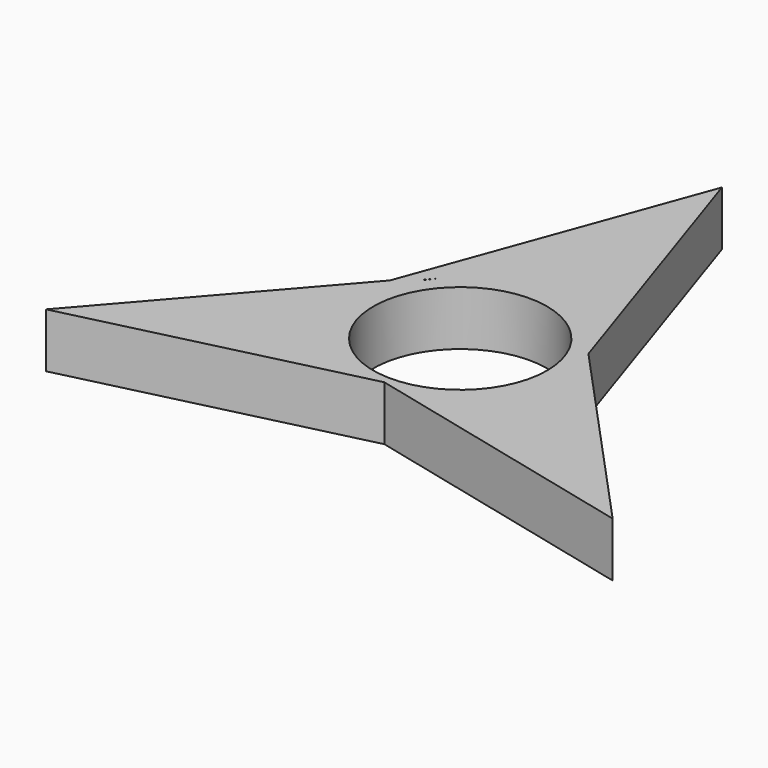
from build123d import *

# Parameters (mm, degrees)
F0_R     = 11.15
F1_DEPTH = 7


with BuildPart() as f1:
    # F0 (on Top) → F1 (new body)
    with BuildSketch(Plane.XY):
        Polygon((12.105645, 5.433464), (0, 41.989982), (-13.375477, 5.433464), (-36.364391, -20.994991), (0, -12.173187), (36.364391, -20.994991), align=None)
        with BuildLine():
            ThreePointArc((-9.859029, 8.777217), (-10.360478, 8.179273), (-10.825715, 7.552741))
            Line((-10.825715, 7.552741), (-10.75834, 7.767064))
            Line((-10.75834, 7.767064), (-9.859029, 8.777217))
        make_face(mode=Mode.SUBTRACT)
        Circle(F0_R, mode=Mode.SUBTRACT)
    extrude(amount=F1_DEPTH)


solid = f1.part
